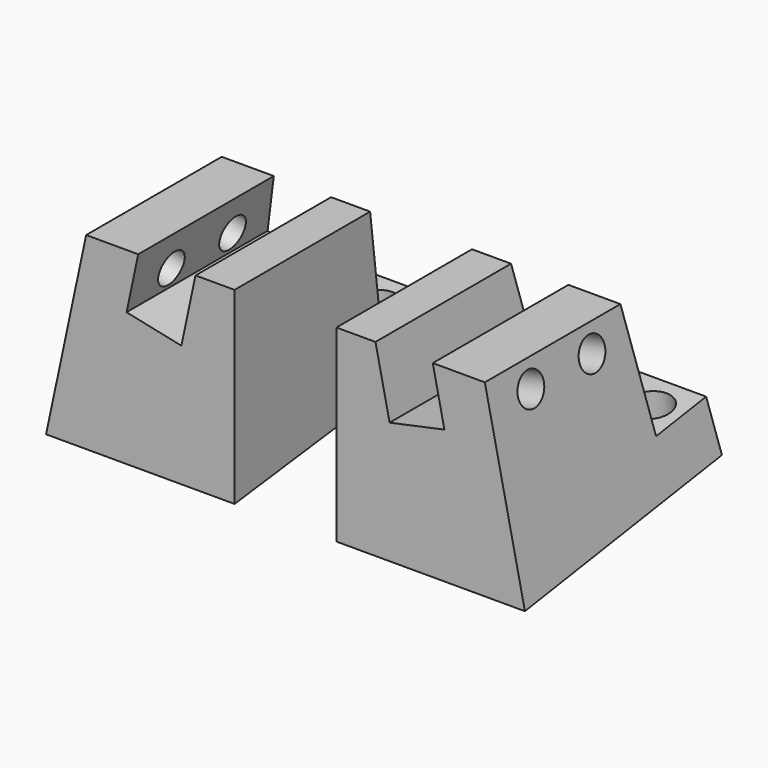
from build123d import *

# Parameters (mm, degrees)
F0_W     = 23.495
F0_H     = 23.495
F1_DEPTH = 31.75
F3_DEPTH = 31.751
F5_DEPTH = 31.751
F7_D     = 4.0386
F7_DEPTH = 6.35
F7_TIP   = 1.213317848
F9_DEPTH = 23.496
F11_D    = 4.9784


with BuildPart() as f1:
    # F0 (on Front) → F1 (new body)
    with BuildSketch(Plane.XZ):
        with Locations((-18.0975, 11.7475)):
            Rectangle(F0_W, F0_H)
    extrude(amount=F1_DEPTH)

    # F2 (on face) → F3 (cut, through all)
    with BuildSketch(Plane.XZ.offset(31.75)):
        Polygon((-29.845, 23.495), (-29.845, 0), (-24.8509835836, 23.495), align=None)
    extrude(amount=-F3_DEPTH, mode=Mode.SUBTRACT)

    # F4 (on face) → F5 (cut, through all)
    with BuildSketch(Plane.XZ.offset(31.75)):
        Polygon((-11.218071751, 23.495), (-18.3591208062, 23.495), (-19.8113839665, 16.6626390089), (-12.9790229754, 15.2103758485), align=None)
    extrude(amount=-F5_DEPTH, mode=Mode.SUBTRACT)

    # F7
    with Locations(Plane(origin=(-28.5548820917, 0, 6.0695275563), x_dir=(0, -1, 0), z_dir=(-0.9781476007, 0, 0.2079116908))):
        with Locations((25.4, 14.6397678639), (15.875, 14.6397678639)):
            Hole(F7_D / 2, depth=F7_DEPTH)
            with Locations((0, 0, -(F7_DEPTH + F7_TIP / 2))):  # 118° drill point
                Cone(0, F7_D / 2, F7_TIP, mode=Mode.SUBTRACT)

    # F8 (on face) → F9 (cut, through all)
    with BuildSketch(Plane.YZ.offset(-6.35)):
        Polygon((-0.7848693773, 10.2559793592), (0, 3.9546715536), (0, 10.353740008), align=None)
        Polygon((0, 3.9546715536), (-31.75, 0), (0, 0), align=None)
        Polygon((-0.7848693773, 10.2559793592), (0, 10.353740008), (0, 23.495), (-10.6246841903, 23.495), (-8.8505433684, 9.2513465563), align=None)
    extrude(amount=-F9_DEPTH, mode=Mode.SUBTRACT)

    # F11 (through all)
    with Locations(Plane(origin=(0, -1.2699244477, 10.1955625564), x_dir=(1, 0, 0), z_dir=(0, -0.1236014767, 0.9923319379))):
        with Locations((-23.961794938, -3.5751967559), (-10.16, -3.5751967559)):
            Hole(F11_D / 2)


with BuildPart() as f12_1:
    # F12: instance of F1
    add(f1.part.mirror(Plane.YZ))


solid = Compound([f1.part, f12_1.part])
